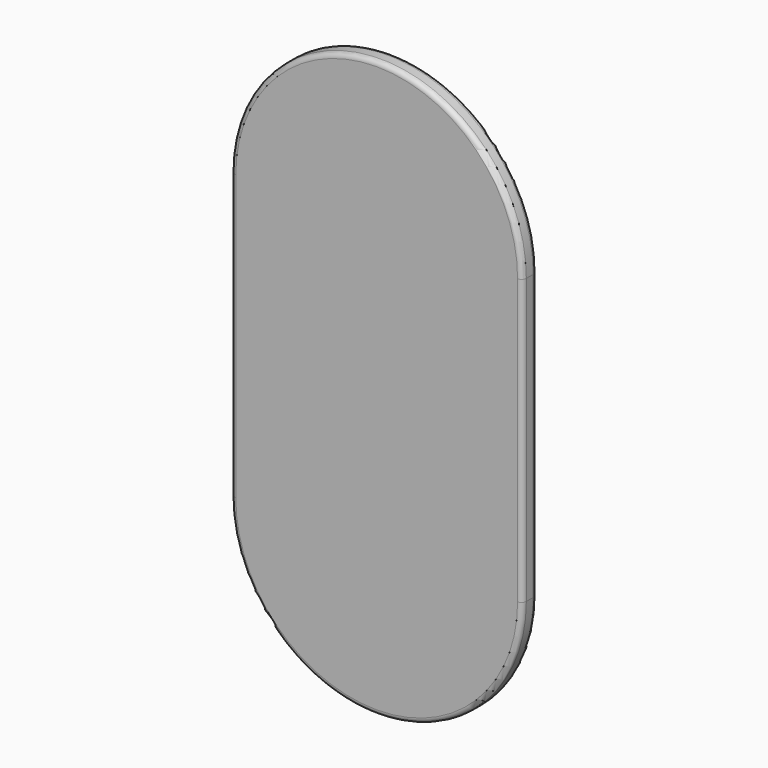
from build123d import *

# Parameters (mm, degrees)
F0_W     = 304.8
F0_H     = 457.2
F1_DEPTH = 19.05
F2_R     = 5.08
F3_R     = 5.08
F4_W     = 304.8
F4_H     = 297.3566651344
F5_DEPTH = 19.05
F7_R     = 5.08
F8_R     = 5.08


with BuildPart() as f1:
    # F0 (on Front) → F1 (new body)
    with BuildSketch(Plane.XZ):
        with BuildLine():
            ThreePointArc((304.8, 457.2), (152.4, 609.6), (0, 457.2))
            Line((0, 457.2), (304.8, 457.2))
        make_face()
        with Locations((152.4, 228.6)):
            Rectangle(F0_W, F0_H)
        with BuildLine():
            Line((304.8, 0), (0, 0))
            ThreePointArc((0, 0), (152.4, -152.4), (304.8, 0))
        make_face()
    extrude(amount=F1_DEPTH)

    # F2
    f2_edges = [f1.edges().sort_by_distance(p)[0] for p in [
        (0, -19.05, 228.6),
        (152.4, -19.05, 609.6),
        (304.8, -19.05, 228.6),
        (152.4, -19.05, -152.4),
    ]]
    fillet(f2_edges, radius=F2_R)

    # F3
    f3_edges = [f1.edges().sort_by_distance(p)[0] for p in [
        (304.8, 0, 228.6),
        (152.4, 0, 609.6),
        (0, 0, 228.6),
        (152.4, 0, -152.4),
    ]]
    fillet(f3_edges, radius=F3_R)


with BuildPart() as f5:
    # F4 (on Front) → F5 (new body)
    with BuildSketch(Plane.XZ):
        with Locations((152.4, 148.6783325672)):
            Rectangle(F4_W, F4_H)
        with BuildLine():
            ThreePointArc((304.8, 297.3566651344), (152.4, 449.7566651344), (0, 297.3566651344))
            Line((0, 297.3566651344), (304.8, 297.3566651344))
        make_face()
        with BuildLine():
            Line((304.8, 0), (0, 0))
            ThreePointArc((0, 0), (152.4, -152.4), (304.8, 0))
        make_face()
    extrude(amount=F5_DEPTH)

    # F7
    f7_edges = [f5.edges().sort_by_distance(p)[0] for p in [
        (0, -19.05, 148.678333),
        (152.4, -19.05, 449.756665),
        (304.8, -19.05, 148.678333),
        (152.4, -19.05, -152.4),
    ]]
    fillet(f7_edges, radius=F7_R)

    # F8
    f8_edges = [f5.edges().sort_by_distance(p)[0] for p in [
        (304.8, 0, 148.678333),
        (152.4, 0, 449.756665),
        (0, 0, 148.678333),
        (152.4, 0, -152.4),
    ]]
    fillet(f8_edges, radius=F8_R)


solid = f5.part
